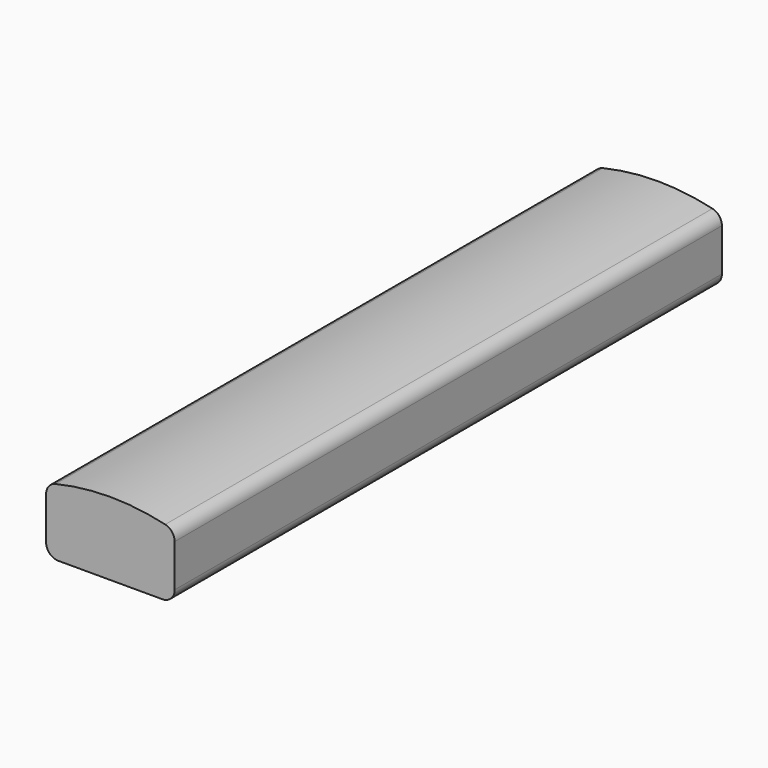
from build123d import *

# Parameters (mm, degrees)
F1_DEPTH = 100


with BuildPart() as f1:
    # F0 (on Front) → F1 (new body)
    with BuildSketch(Plane.XZ):
        with BuildLine():
            ThreePointArc((-9.4, -2.9), (-8.872792, -4.172792), (-7.6, -4.7))
            Line((-7.6, -4.7), (7.6, -4.7))
            ThreePointArc((7.6, -4.7), (8.872792, -4.172792), (9.4, -2.9))
            Line((9.4, -2.9), (9.4, 3.308333))
            ThreePointArc((9.4, 3.308333), (9.012434, 4.424142), (8.016633, 5.059452))
            ThreePointArc((8.016633, 5.059452), (0, 6), (-8.016633, 5.059452))
            ThreePointArc((-8.016633, 5.059452), (-9.012434, 4.424142), (-9.4, 3.308333))
            Line((-9.4, 3.308333), (-9.4, -2.9))
        make_face()
    extrude(amount=F1_DEPTH)


solid = f1.part
